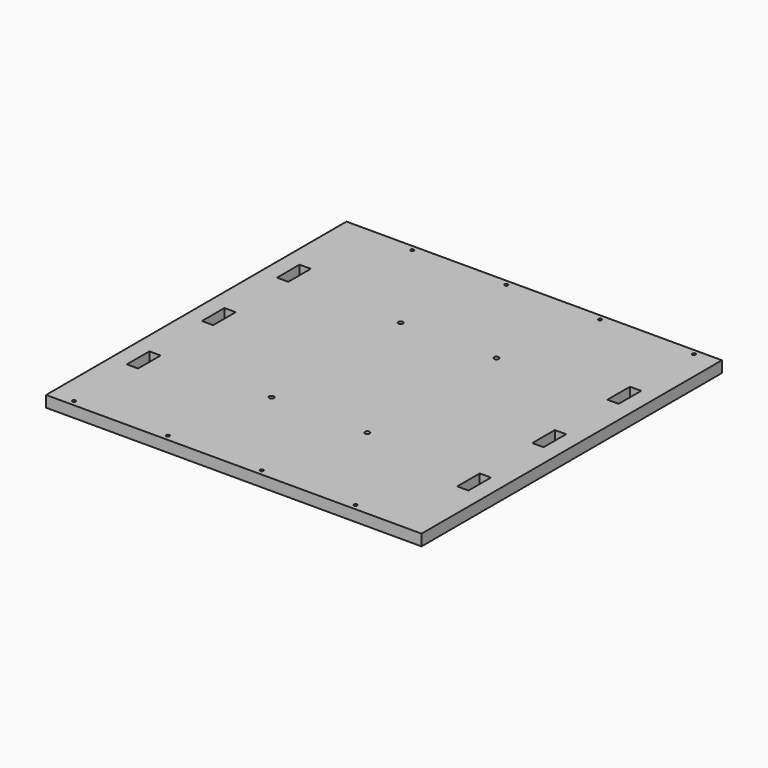
from build123d import *

# Parameters (mm, degrees)
F0_W     = 400
F0_H     = 400
F0_R     = 1.75
F0_W_2   = 12
F0_H_2   = 30
F0_R_2   = 2.5
F1_DEPTH = 12


with BuildPart() as f1:
    # F0 (on Top) → F1 (new body)
    with BuildSketch(Plane.XY):
        with Locations((200, 200)):
            Rectangle(F0_W, F0_H)
        with Locations((25, 6)):
            Circle(F0_R, mode=Mode.SUBTRACT)
        with Locations((125, 6)):
            Circle(F0_R, mode=Mode.SUBTRACT)
        with Locations((24, 100)):
            Rectangle(F0_W_2, F0_H_2, mode=Mode.SUBTRACT)
        with Locations((149, 114)):
            Circle(F0_R_2, mode=Mode.SUBTRACT)
        with Locations((225, 6)):
            Circle(F0_R, mode=Mode.SUBTRACT)
        with Locations((325, 6)):
            Circle(F0_R, mode=Mode.SUBTRACT)
        with Locations((251, 114)):
            Circle(F0_R_2, mode=Mode.SUBTRACT)
        with Locations((376, 100)):
            Rectangle(F0_W_2, F0_H_2, mode=Mode.SUBTRACT)
        with Locations((24, 200)):
            Rectangle(F0_W_2, F0_H_2, mode=Mode.SUBTRACT)
        with Locations((149, 286)):
            Circle(F0_R_2, mode=Mode.SUBTRACT)
        with Locations((24, 300)):
            Rectangle(F0_W_2, F0_H_2, mode=Mode.SUBTRACT)
        with Locations((75, 394)):
            Circle(F0_R, mode=Mode.SUBTRACT)
        with Locations((175, 394)):
            Circle(F0_R, mode=Mode.SUBTRACT)
        with Locations((251, 286)):
            Circle(F0_R_2, mode=Mode.SUBTRACT)
        with Locations((376, 200)):
            Rectangle(F0_W_2, F0_H_2, mode=Mode.SUBTRACT)
        with Locations((275, 394)):
            Circle(F0_R, mode=Mode.SUBTRACT)
        with Locations((376, 300)):
            Rectangle(F0_W_2, F0_H_2, mode=Mode.SUBTRACT)
        with Locations((375, 394)):
            Circle(F0_R, mode=Mode.SUBTRACT)
    extrude(amount=F1_DEPTH)


solid = f1.part
